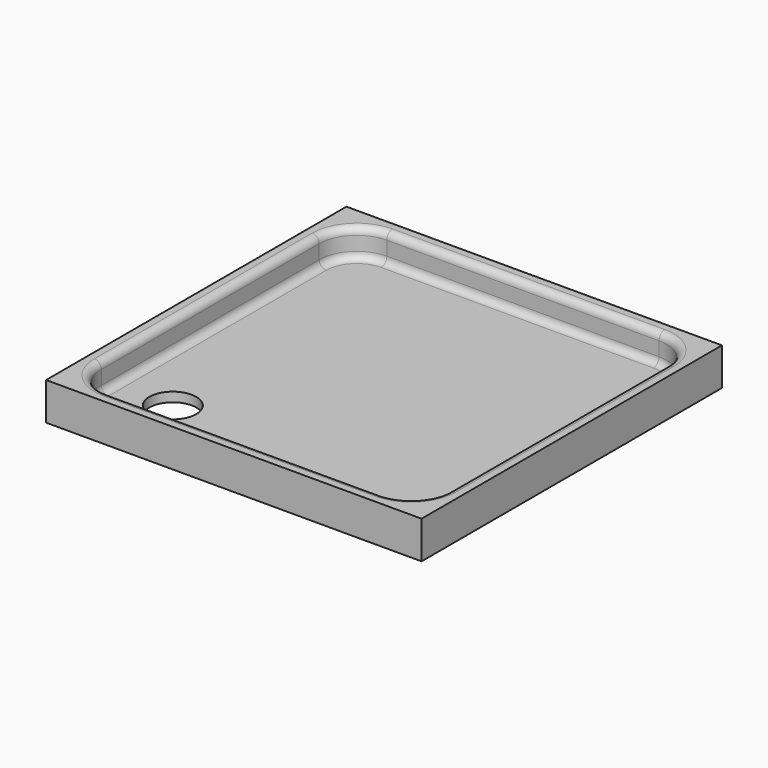
from build123d import *

# Parameters (mm, degrees)
SKETCH196_W     = 800
SKETCH196_H     = 800
PAD016_DEPTH    = 80
POCKET_DEPTH    = 60
SKETCH198_R     = 50
POCKET001_DEPTH = 20
FILLET016_R     = 15
FILLET017_R     = 15


with BuildPart() as part:
    # Sketch196 → Pad016 (new body)
    with BuildSketch(Plane.XY):
        with Locations((400, 400)):
            Rectangle(SKETCH196_W, SKETCH196_H)
    extrude(amount=PAD016_DEPTH)

    # Sketch197 (on Face6 of Pad016) → Pocket (cut)
    with BuildSketch(Plane.XY.offset(80)):
        with BuildLine():
            Line((30, 110), (30, 690))
            ThreePointArc((110, 770), (53.431458, 746.568542), (30, 690))
            Line((110, 770), (690, 770))
            ThreePointArc((770, 690), (746.568542, 746.568542), (690, 770))
            Line((770, 690), (770, 110))
            ThreePointArc((690, 30), (746.568542, 53.431458), (770, 110))
            Line((690, 30), (110, 30))
            ThreePointArc((30, 110), (53.431458, 53.431458), (110, 30))
        make_face()
    extrude(amount=-POCKET_DEPTH, mode=Mode.SUBTRACT)

    # Sketch198 (on Face15 of Pocket) → Pocket001 (cut)
    with BuildSketch(Plane.XY.offset(20)):
        with Locations((150, 150)):
            Circle(SKETCH198_R)
    extrude(amount=-POCKET001_DEPTH, mode=Mode.SUBTRACT)

    # Fillet016
    fillet016_edges = [part.edges().sort_by_distance(p)[0] for p in [
        (53.431458, 746.568542, 20),
        (30, 400, 20),
        (53.431458, 53.431458, 20),
        (400, 30, 20),
        (746.568542, 53.431458, 20),
        (770, 400, 20),
        (746.568542, 746.568542, 20),
        (400, 770, 20),
    ]]
    fillet(fillet016_edges, radius=FILLET016_R)

    # Fillet017
    fillet017_edges = [part.edges().sort_by_distance(p)[0] for p in [
        (53.431458, 746.568542, 80),
        (30, 400, 80),
        (53.431458, 53.431458, 80),
        (746.568542, 53.431458, 80),
        (770, 400, 80),
        (746.568542, 746.568542, 80),
        (400, 770, 80),
    ]]
    fillet(fillet017_edges, radius=FILLET017_R)


with BuildPart() as part_1:
    # Body011 placement: moved
    add(part.part.moved(Location((2438, 4065, 0))))


solid = part_1.part
